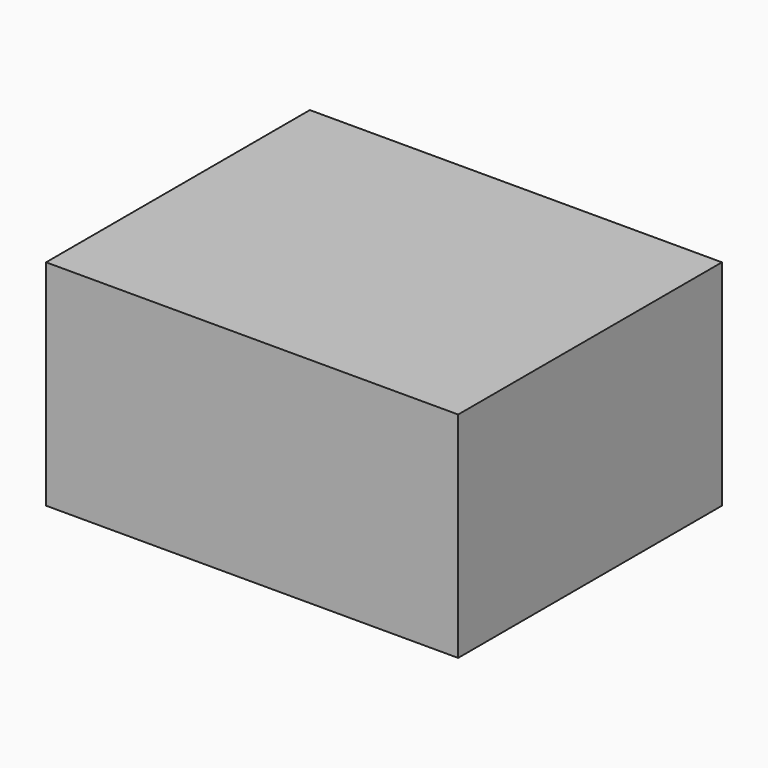
from build123d import *

# Parameters (mm, degrees)
SKETCH_W  = 5000
SKETCH_H  = 4000
PAD_DEPTH = 2600


with BuildPart() as part:
    # Sketch → Pad (new body)
    with BuildSketch(Plane.XY):
        with Locations((2500, 2000)):
            Rectangle(SKETCH_W, SKETCH_H)
    extrude(amount=PAD_DEPTH)


solid = part.part
